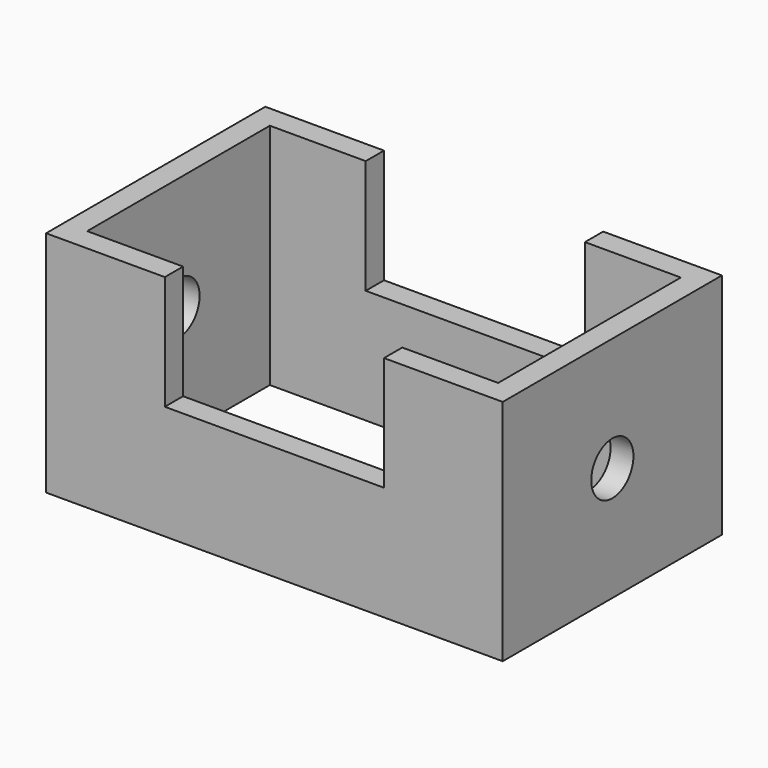
from build123d import *

# Parameters (mm, degrees)
F0_W     = 127
F0_H     = 76.2
F0_W_2   = 114.3
F0_H_2   = 63.5
F1_DEPTH = 31.75
F3_DEPTH = 101.6
F4_R     = 7.336255
F5_DEPTH = 127


with BuildPart() as f1:
    # F0 (on Top) → F1 (new body, symmetric)
    with BuildSketch(Plane.XY):
        Rectangle(F0_W, F0_H)
        Rectangle(F0_W_2, F0_H_2, mode=Mode.SUBTRACT)
    extrude(amount=F1_DEPTH, both=True)

    # F2 (on face) → F3 (cut)
    with BuildSketch(Plane.XZ.offset(38.1)):
        Polygon((30.48, 31.75), (-30.48, 31.75), (-30.48, 0), (0, 0), (30.48, 0), align=None)
    extrude(amount=-F3_DEPTH, mode=Mode.SUBTRACT)

    # F4 (on face) → F5 (cut)
    with BuildSketch(Plane.YZ.offset(63.5)):
        Circle(F4_R)
    extrude(amount=-F5_DEPTH, mode=Mode.SUBTRACT)


solid = f1.part
